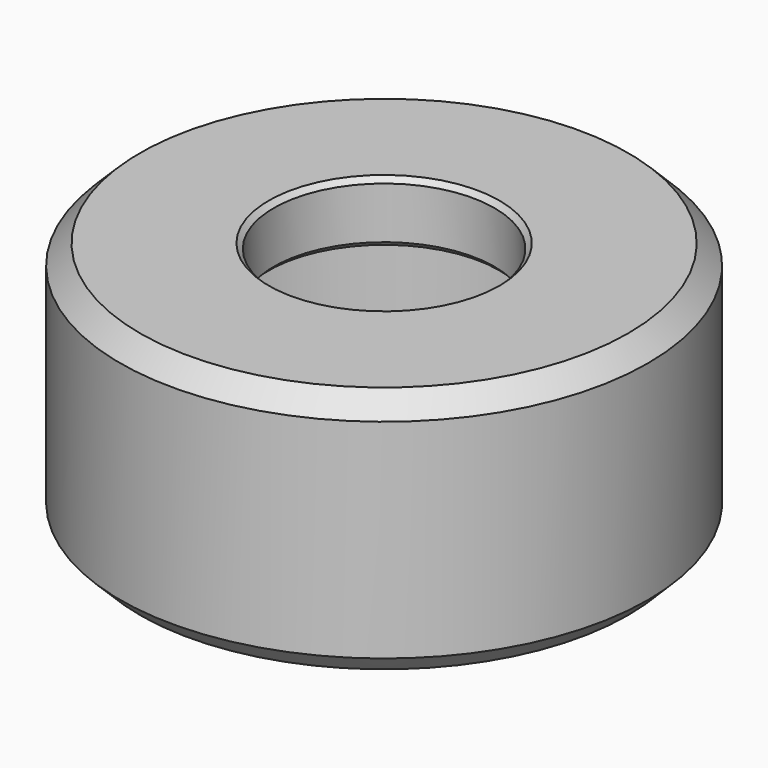
from build123d import *

# Parameters (mm, degrees)
F2_SIZE  = 1.016
F3_R     = 5.6515
F4_DEPTH = 25.4
F5_SIZE  = 0.254


with BuildPart() as f1:
    # F0 (on Front) → F1 (revolve)
    with BuildSketch(Plane.XZ):
        Polygon((10.287, 9.5504), (10.287, 0), (13.5128, 0), (13.5128, 12.7), (0, 12.7), (0, 9.5504), align=None)
    revolve(axis=Axis((0, 0, 6.35), (0, 0, 1)))

    # F2
    f2_edges = [f1.edges().sort_by_distance(p)[0] for p in [
        (-13.5128, 0, 12.7),
        (-13.5128, 0, 0),
    ]]
    chamfer(f2_edges, length=F2_SIZE)

    # F3 (on face) → F4 (cut)
    with BuildSketch(Plane.XY.offset(12.7)):
        Circle(F3_R)
    extrude(amount=-F4_DEPTH, mode=Mode.SUBTRACT)

    # F5
    f5_edges = [f1.edges().sort_by_distance(p)[0] for p in [
        (-5.6515, 0, 12.7),
        (-5.6515, 0, 9.5504),
        (-10.287, 0, 0),
    ]]
    chamfer(f5_edges, length=F5_SIZE)


solid = f1.part
